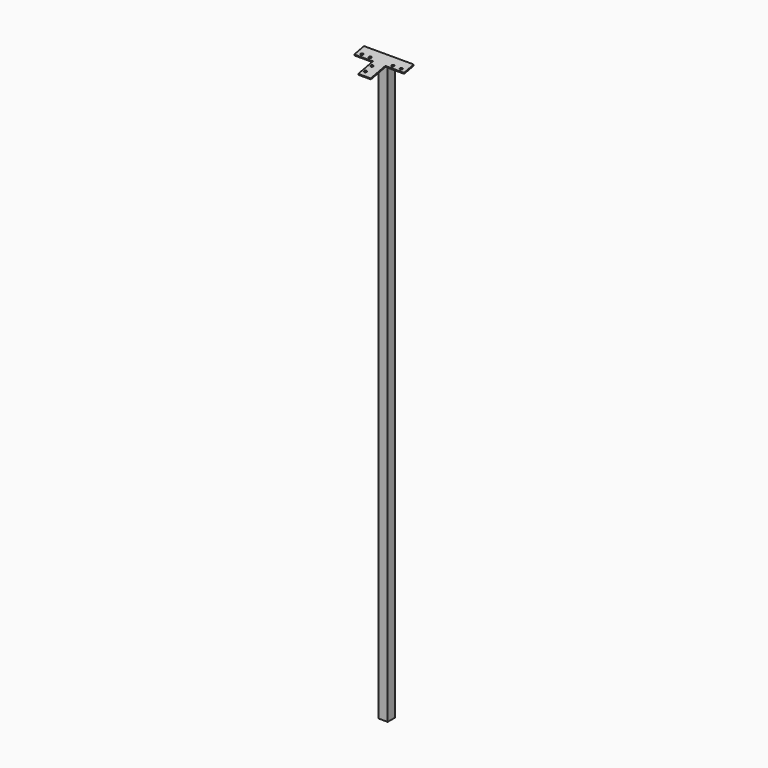
from build123d import *

# Parameters (mm, degrees)
F0_W      = 45
F0_H      = 45
F1_DEPTH  = 3330
F6_W      = 45
F6_H      = 45.842251273
F7_DEPTH  = 25
F8_W      = 60
F8_H      = 60
F8_W_2    = 90
F8_H_2    = 90
F9_DEPTH  = 5
F10_R     = 6
F11_DEPTH = 25
F12_W     = 150
F12_H     = 4.7702248844
F13_DEPTH = 3358.6871623993
F15_DEPTH = 106.2
F16_W     = 45
F16_H     = 45
F17_DEPTH = 534


with BuildPart() as f1:
    # F0 (on Top) → F1 (new body)
    with BuildSketch(Plane.XY):
        Rectangle(F0_W, F0_H)
    extrude(amount=F1_DEPTH)

    # F6 (on face) → F7 (join)
    with BuildSketch(Plane(origin=(0, -624.5391596736, 3212.9754420296), x_dir=(1, 0, 0), z_dir=(0, 0.1908089954, -0.9816271834))):
        with Locations((0, -636.2284686128)):
            Rectangle(F6_W, F6_H)
    extrude(amount=F7_DEPTH)

    # F8 (on face) → F9 (join)
    with BuildSketch(Plane(origin=(0, -624.5391596736, 3212.9754420296), x_dir=(1, 0, 0), z_dir=(0, 0.1908089954, -0.9816271834))):
        with Locations((-7.5, -629.1495942493)):
            Rectangle(F8_W, F8_H)
        with Locations((-82.5, -629.1495942493)):
            Rectangle(F8_W_2, F8_H)
        with Locations((67.5, -629.1495942493)):
            Rectangle(F8_W_2, F8_H)
        with Locations((-7.5, -554.1495942493)):
            Rectangle(F8_W, F8_H_2)
    extrude(amount=F9_DEPTH)

    # F10 (on face) → F11 (cut)
    with BuildSketch(Plane(origin=(0, -624.5391596736, 3212.9754420296), x_dir=(1, 0, 0), z_dir=(0, -0.1908089954, 0.9816271834))):
        with BuildLine():
            ThreePointArc((81.5, 614.1495942493), (83.2573593129, 609.9069535622), (87.5, 608.1495942493))
            Line((87.5, 608.1495942493), (87.5, 614.1495942493))
            Line((87.5, 614.1495942493), (81.5, 614.1495942493))
        make_face()
        with Locations((47.5, 614.1495942493)):
            Circle(F10_R)
        with BuildLine():
            Line((87.5, 614.1495942493), (87.5, 608.1495942493))
            ThreePointArc((87.5, 608.1495942493), (91.7426406871, 609.9069535622), (93.5, 614.1495942493))
            ThreePointArc((93.5, 614.1495942493), (87.5, 620.1495942493), (81.5, 614.1495942493))
            Line((81.5, 614.1495942493), (87.5, 614.1495942493))
        make_face()
        with BuildLine():
            ThreePointArc((-22.5, 540.1495942493), (-28.5, 534.1495942493), (-22.5, 528.1495942493))
            Line((-22.5, 528.1495942493), (-22.5, 540.1495942493))
        make_face()
        with BuildLine():
            ThreePointArc((-22.5, 580.1495942493), (-28.5, 574.1495942493), (-22.5, 568.1495942493))
            Line((-22.5, 568.1495942493), (-22.5, 580.1495942493))
        make_face()
        with BuildLine():
            Line((-22.5, 580.1495942493), (-22.5, 568.1495942493))
            ThreePointArc((-22.5, 568.1495942493), (-18.2573593129, 569.9069535622), (-16.5, 574.1495942493))
            ThreePointArc((-16.5, 574.1495942493), (-18.2573593129, 578.3922349364), (-22.5, 580.1495942493))
        make_face()
        with BuildLine():
            Line((-22.5, 540.1495942493), (-22.5, 528.1495942493))
            ThreePointArc((-22.5, 528.1495942493), (-18.2573593129, 529.9069535622), (-16.5, 534.1495942493))
            ThreePointArc((-16.5, 534.1495942493), (-18.2573593129, 538.3922349364), (-22.5, 540.1495942493))
        make_face()
        with Locations((-62.5, 614.1495942493)):
            Circle(F10_R)
        with Locations((-102.5, 614.1495942493)):
            Circle(F10_R)
    extrude(amount=-F11_DEPTH, mode=Mode.SUBTRACT)

    # F12 (on Top) → F13 (cut)
    with BuildSketch(Plane.XY):
        with Locations((52.5, 24.8851124422)):
            Rectangle(F12_W, F12_H)
    extrude(amount=F13_DEPTH, mode=Mode.SUBTRACT)

    # F14 (on face) → F15 (cut)
    with BuildSketch(Plane.YZ.offset(-22.5)):
        Polygon((22.5, 3338.7471139112), (22.5, 3333.6535304364), (23.4540449769, 3333.838977994), align=None)
    extrude(amount=-F15_DEPTH, mode=Mode.SUBTRACT)

    # F16 (on face) → F17 (cut)
    with BuildSketch(Plane(origin=(0, 0, 0), x_dir=(1, 0, 0), z_dir=(0, 0, -1))):
        Rectangle(F16_W, F16_H)
    extrude(amount=-F17_DEPTH, mode=Mode.SUBTRACT)


solid = f1.part
